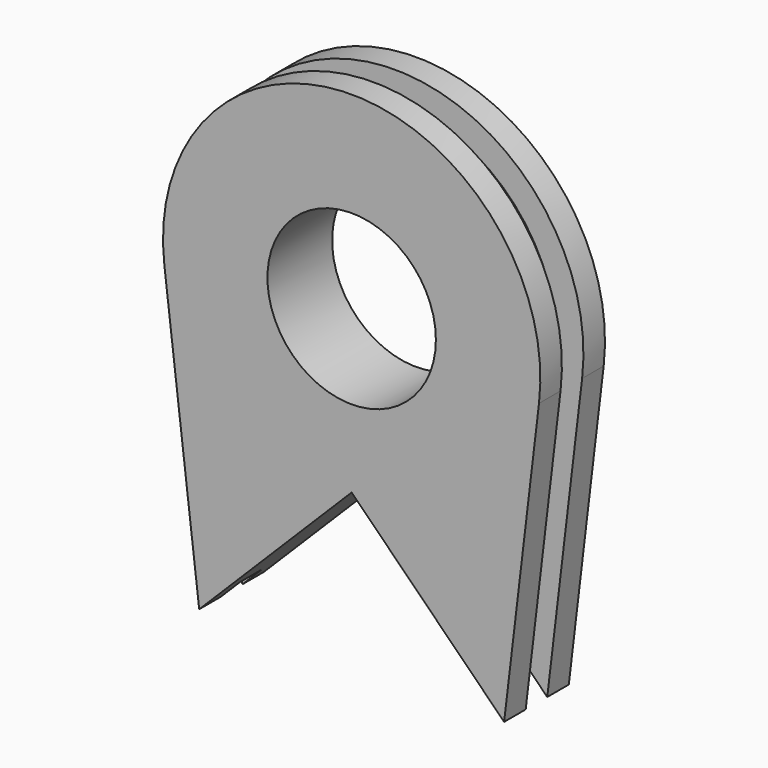
from build123d import *

# Parameters (mm, degrees)
SKETCH_R            = 19.84375
PAD_DEPTH           = 6.35
SKETCH001_R         = 19.84375
PAD001_DEPTH        = 6.35
LINEARPATTERN_COUNT = 2
LINEARPATTERN_PITCH = 12.7


with BuildPart() as part:
    # Sketch → Pad (new body)
    with BuildSketch(Plane.XZ):
        with BuildLine():
            ThreePointArc((44.136002, 32.82593), (0, 82.55), (-44.136002, 32.82593))
            Line((-44.136002, 32.82593), (-35.921024, -35.921024))
            Line((-35.921024, -35.921024), (0, 0))
            Line((0, 0), (35.921024, -35.921024))
            Line((35.921024, -35.921024), (44.136002, 32.82593))
        make_face()
        with Locations((0, 38.1)):
            Circle(SKETCH_R, mode=Mode.SUBTRACT)
    pad = extrude(amount=PAD_DEPTH)

    # Sketch001 (on DatumPlane) → Pad001 (join)
    with BuildSketch(Plane.XZ.offset(6.35)):
        with BuildLine():
            ThreePointArc((37.916242, 34.362546), (0, 76.2), (-37.916242, 34.362546))
            Line((-37.916242, 34.362546), (-31.430896, -31.430896))
            Line((-31.430896, -31.430896), (0, 0))
            Line((0, 0), (31.430896, -31.430896))
            Line((31.430896, -31.430896), (37.916242, 34.362546))
        make_face()
        with Locations((0, 38.1)):
            Circle(SKETCH001_R, mode=Mode.SUBTRACT)
    extrude(amount=PAD001_DEPTH)

    # LinearPattern: Pad ×2
    with Locations(*[(0, -i * LINEARPATTERN_PITCH, 0) for i in range(1, LINEARPATTERN_COUNT)]):
        add(pad)


solid = part.part
